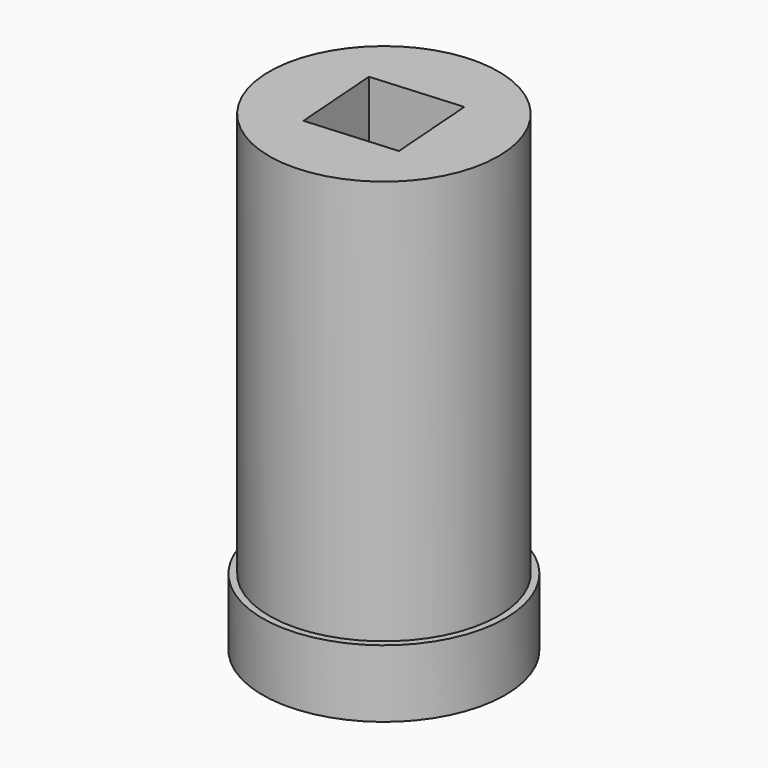
from build123d import *

# Parameters (mm, degrees)
SKETCH_R      = 18.006159
PAD_DEPTH     = 10
SKETCH001_R   = 17
SKETCH001_R_2 = 4.86
PAD001_DEPTH  = 60
POCKET_DEPTH  = 20


with BuildPart() as part:
    # Sketch → Pad (new body)
    with BuildSketch(Plane.XY):
        Circle(SKETCH_R)
        Polygon((-13.231617, 4.113917), (-10.178565, -9.401958), (3.053052, -13.515875), (13.231617, -4.113917), (10.178565, 9.401958), (-3.053052, 13.515875), align=None, mode=Mode.SUBTRACT)
    extrude(amount=PAD_DEPTH)

    # Sketch001 (on Face9 of Pad) → Pad001 (join)
    with BuildSketch(Plane.XY.offset(10)):
        Circle(SKETCH001_R)
        Circle(SKETCH001_R_2, mode=Mode.SUBTRACT)
    extrude(amount=PAD001_DEPTH)

    # Sketch002 (on Face12 of Pad001) → Pocket (cut)
    with BuildSketch(Plane.XY.offset(70)):
        Polygon((-7.174122, 6.189667), (-6.189667, -7.174122), (7.174122, -6.189667), (6.189667, 7.174122), align=None)
    extrude(amount=-POCKET_DEPTH, mode=Mode.SUBTRACT)


solid = part.part
